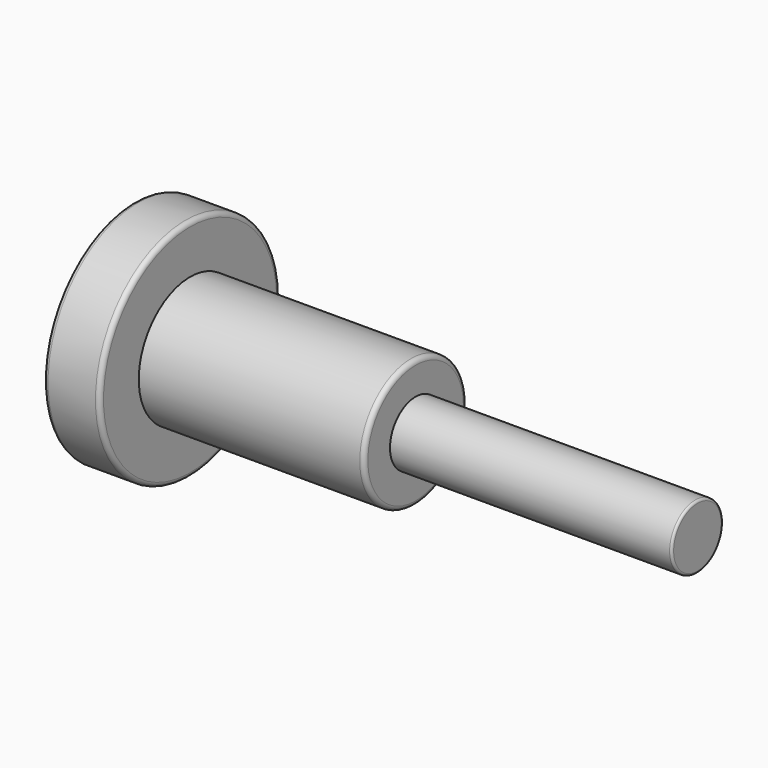
from build123d import *

# Parameters (mm, degrees)
F0_R     = 12.7
F1_DEPTH = 6.35
F2_R     = 7.231453
F3_DEPTH = 25.4
F4_R     = 3.608235
F5_DEPTH = 31.75
F6_R     = 0.508
F7_R     = 0.508
F8_R     = 0.508
F9_R     = 0.254


with BuildPart() as f1:
    # F0 (on Right) → F1 (new body)
    with BuildSketch(Plane.YZ):
        Circle(F0_R)
    extrude(amount=-F1_DEPTH)

    # F2 (on Right) → F3 (join)
    with BuildSketch(Plane.YZ):
        Circle(F2_R)
    extrude(amount=F3_DEPTH)

    # F4 (on face) → F5 (join)
    with BuildSketch(Plane.YZ.offset(25.4)):
        Circle(F4_R)
    extrude(amount=F5_DEPTH)

    # F6
    f6_edges = [f1.edges().sort_by_distance(p)[0] for p in [
        (-6.35, -12.7, 0),
    ]]
    fillet(f6_edges, radius=F6_R)

    # F7
    f7_edges = [f1.edges().sort_by_distance(p)[0] for p in [
        (0, -12.7, 0),
    ]]
    fillet(f7_edges, radius=F7_R)

    # F8
    f8_edges = [f1.edges().sort_by_distance(p)[0] for p in [
        (25.4, -7.231453, 0),
    ]]
    fillet(f8_edges, radius=F8_R)

    # F9
    f9_edges = [f1.edges().sort_by_distance(p)[0] for p in [
        (57.15, -3.608235, 0),
    ]]
    fillet(f9_edges, radius=F9_R)


solid = f1.part
